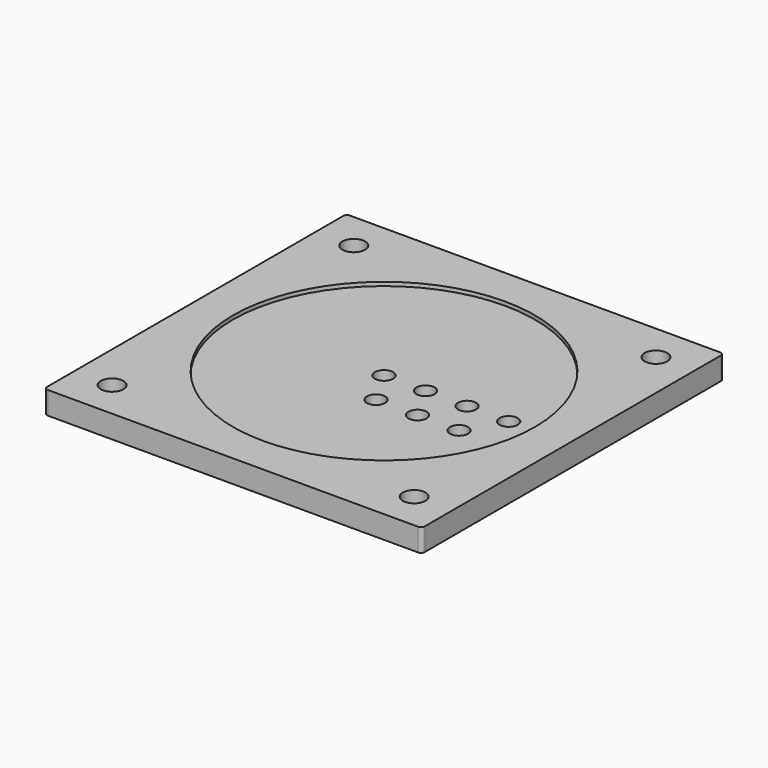
from build123d import *

# Parameters (mm, degrees)
F0_W     = 500
F0_H     = 500
F0_R     = 15
F0_R_2   = 12.05
F1_DEPTH = 30
F2_R     = 5
F3_R     = 200
F4_DEPTH = 5


with BuildPart() as f1:
    # F0 (on Top) → F1 (new body)
    with BuildSketch(Plane.XY):
        Rectangle(F0_W, F0_H)
        with Locations((-200, -200)):
            Circle(F0_R, mode=Mode.SUBTRACT)
        with Locations((200, -200)):
            Circle(F0_R, mode=Mode.SUBTRACT)
        with Locations((27.5, -47.631397)):
            Circle(F0_R_2, mode=Mode.SUBTRACT)
        with Locations((82.5, -47.631397)):
            Circle(F0_R_2, mode=Mode.SUBTRACT)
        with Locations((137.5, -47.631397)):
            Circle(F0_R_2, mode=Mode.SUBTRACT)
        with Locations((-200, 200)):
            Circle(F0_R, mode=Mode.SUBTRACT)
        Circle(F0_R_2, mode=Mode.SUBTRACT)
        with Locations((55, 0)):
            Circle(F0_R_2, mode=Mode.SUBTRACT)
        with Locations((110, 0)):
            Circle(F0_R_2, mode=Mode.SUBTRACT)
        with Locations((165, 0)):
            Circle(F0_R_2, mode=Mode.SUBTRACT)
        with Locations((200, 200)):
            Circle(F0_R, mode=Mode.SUBTRACT)
    extrude(amount=F1_DEPTH)

    # F2
    f2_edges = [f1.edges().sort_by_distance(p)[0] for p in [
        (-250, -250, 15),
        (250, -250, 15),
        (250, 250, 15),
        (-250, 250, 15),
    ]]
    fillet(f2_edges, radius=F2_R)

    # F3 (on face) → F4 (cut)
    with BuildSketch(Plane.XY.offset(30)):
        Circle(F3_R)
    extrude(amount=-F4_DEPTH, mode=Mode.SUBTRACT)


solid = f1.part
